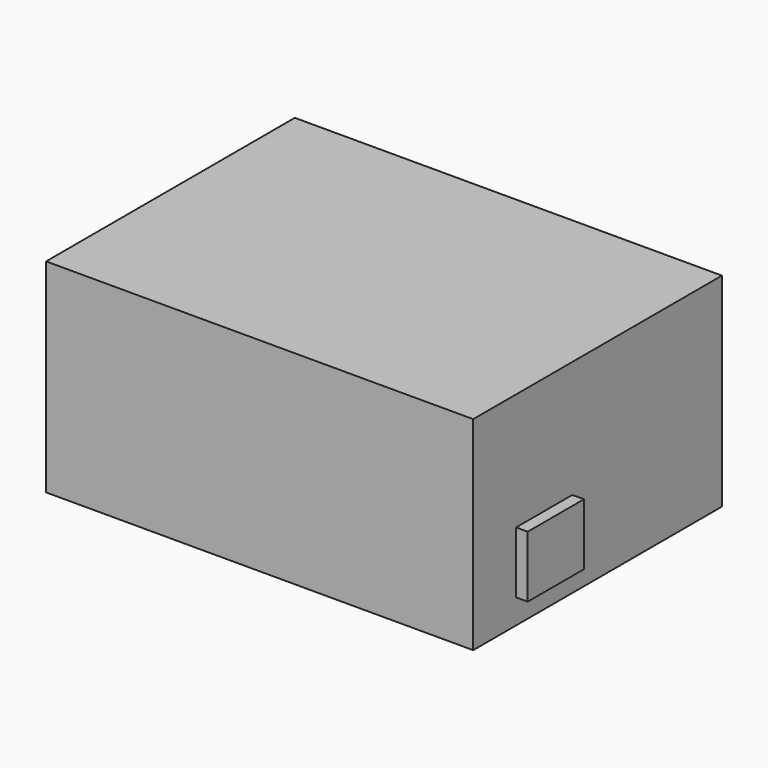
from build123d import *

# Parameters (mm, degrees)
F0_W     = 75.5
F0_H     = 53.5
F1_DEPTH = 35
F2_W     = 53.5
F2_H     = 35
F2_W_2   = 12.1
F2_H_2   = 10.6
F3_DEPTH = 2


with BuildPart() as f1:
    # F0 (on Top) → F1 (new body)
    with BuildSketch(Plane.XY):
        Rectangle(F0_W, F0_H)
    extrude(amount=F1_DEPTH)

    # F2 (on face) → F3 (cut)
    with BuildSketch(Plane.YZ.offset(37.75)):
        with Locations((0, 17.5)):
            Rectangle(F2_W, F2_H)
        with Locations((-11.47, 9.55)):
            Rectangle(F2_W_2, F2_H_2, mode=Mode.SUBTRACT)
    extrude(amount=-F3_DEPTH, mode=Mode.SUBTRACT)


solid = f1.part
